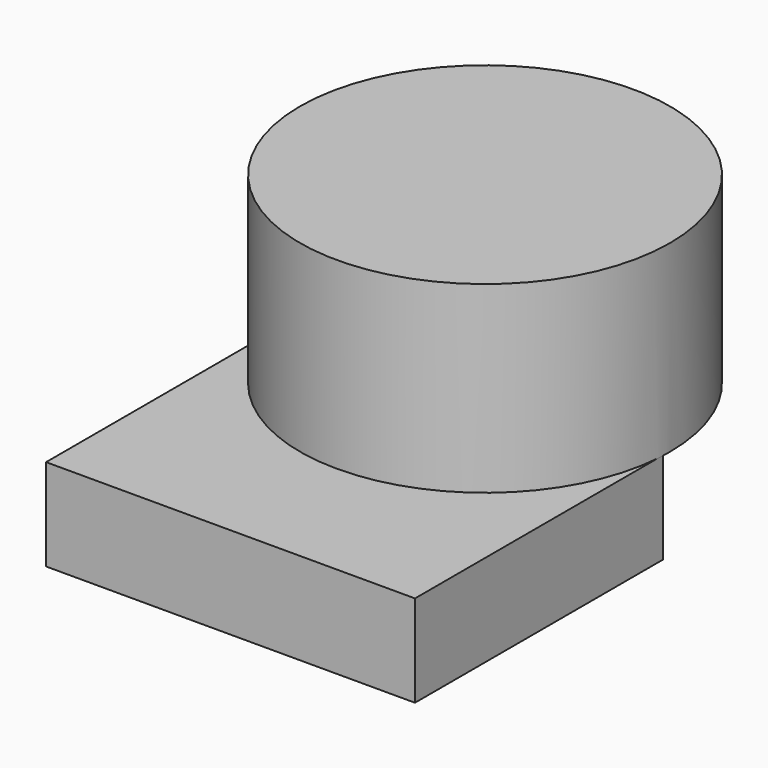
from build123d import *

# Parameters (mm, degrees)
F1_R     = 51.165041
F2_DEPTH = 50.8
F0_W     = 101.995886
F0_H     = 85.735648
F3_DEPTH = 25.4


with BuildPart() as f2:
    # F1 (on face) → F2 (new body)
    with BuildSketch(Plane.XY):
        with Locations((0, 45.085132)):
            Circle(F1_R)
    extrude(amount=F2_DEPTH)

    # F0 (on Top) → F3 (join)
    with BuildSketch(Plane.XY):
        Rectangle(F0_W, F0_H)
    extrude(amount=-F3_DEPTH)


solid = f2.part
